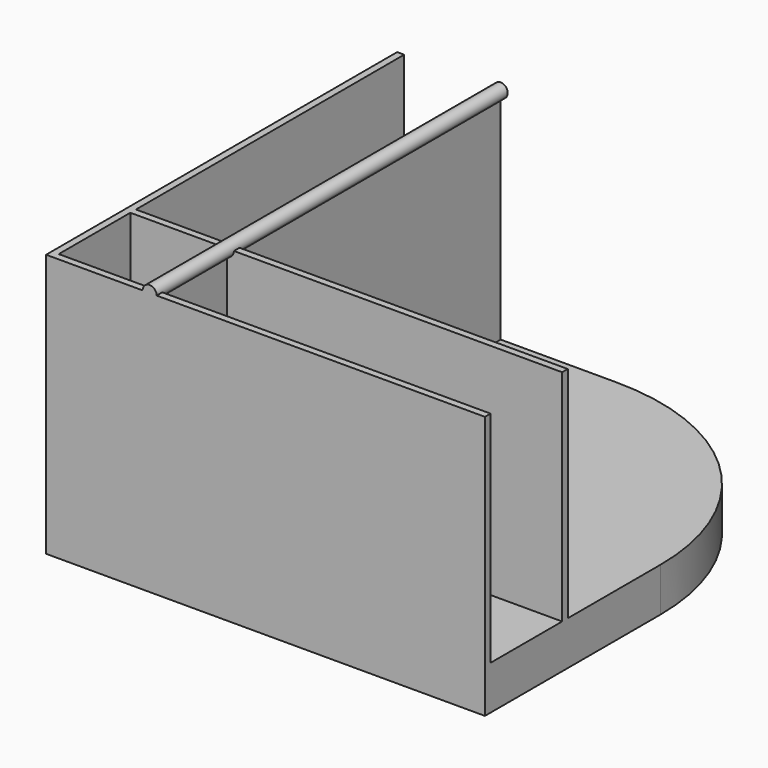
from build123d import *

# Parameters (mm, degrees)
F1_DEPTH = 5
F2_W     = 10.2
F2_H     = 10.2
F3_DEPTH = 25
F5_DEPTH = 50


with BuildPart() as f1:
    # F0 (on Top) → F1 (new body)
    with BuildSketch(Plane.XY):
        with BuildLine():
            Line((0, 25), (-25, 25))
            Line((-25, 25), (-25, -25))
            Line((-25, -25), (25, -25))
            Line((25, -25), (25, 0))
            ThreePointArc((25, 0), (17.67767, 17.67767), (0, 25))
        make_face()
    extrude(amount=F1_DEPTH)

    # F2 (on face) → F3 (join)
    with BuildSketch(Plane.XY.offset(5)):
        Polygon((-24.2, -13.2), (-24.2, 25), (-25, 25), (-25, -25), (25, -25), (25, -24.2), (-13.2, -24.2), (-13.2, -14), (25, -14), (25, -13.2), (-13.2, -13.2), (-13.2, 25), (-14, 25), (-14, -13.2), align=None)
        with Locations((-19.1, -19.1)):
            Rectangle(F2_W, F2_H, mode=Mode.SUBTRACT)
    extrude(amount=F3_DEPTH)

    # F4 (on face) → F5 (join)
    with BuildSketch(Plane(origin=(0, 25, 0), x_dir=(-1, 0, 0), z_dir=(0, 1, 0))):
        with BuildLine():
            Line((13.2, 30), (14, 30))
            ThreePointArc((14, 30), (12.634315, 30.565685), (13.2, 29.2))
            Line((13.2, 29.2), (13.2, 30))
        make_face()
    extrude(amount=-F5_DEPTH)


solid = f1.part
